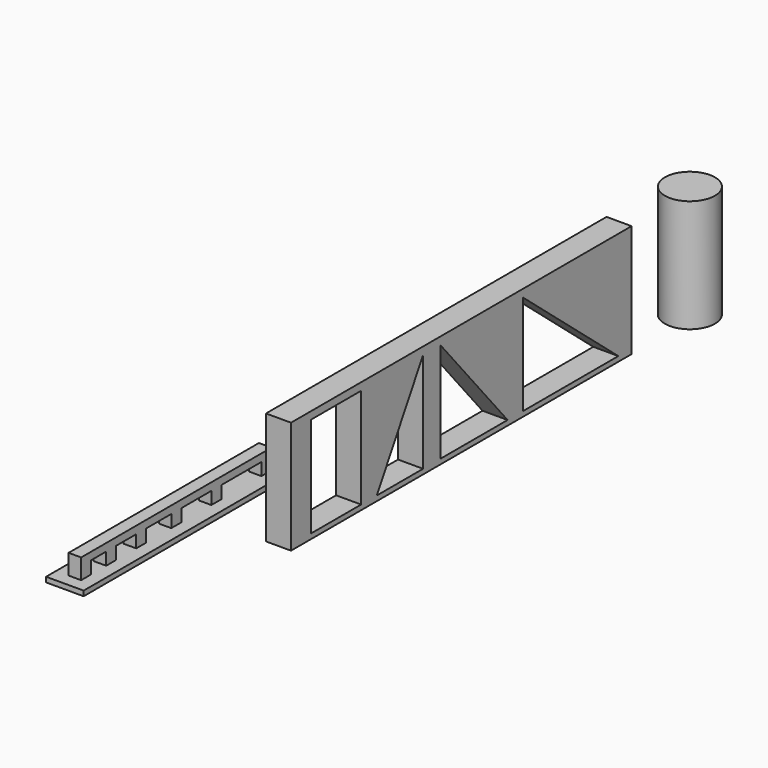
from build123d import *

# Parameters (mm, degrees)
F0_W     = 3.81
F0_H     = 25.4
F1_DEPTH = 0.508
F2_W     = 1.27
F2_H     = 1.27
F3_DEPTH = 1.27
F4_W     = 1.27
F4_H     = 24.13
F5_DEPTH = 0.762
F6_W     = 2.54
F6_H     = 43.18
F6_R     = 2.54
F7_DEPTH = 11.43
F8_W     = 6.35
F8_H     = 10.16
F9_DEPTH = 2.54


with BuildPart() as f1:
    # F0 (on Top) → F1 (new body)
    with BuildSketch(Plane.XY):
        Rectangle(F0_W, F0_H)
    extrude(amount=F1_DEPTH)

    # F2 (on face) → F3 (join)
    with BuildSketch(Plane.XY.offset(0.508)):
        with Locations((0, 12.065)):
            Rectangle(F2_W, F2_H)
        with Locations((0, 5.715)):
            Rectangle(F2_W, F2_H)
        with Locations((0, 0.635)):
            Rectangle(F2_W, F2_H)
        with Locations((0, -3.81)):
            Rectangle(F2_W, F2_H)
        with Locations((0, -7.62)):
            Rectangle(F2_W, F2_H)
        with Locations((0, -10.795)):
            Rectangle(F2_W, F2_H)
    extrude(amount=F3_DEPTH)

    # F4 (on face) → F5 (join)
    with BuildSketch(Plane.XY.offset(1.778)):
        with Locations((0, 0.635)):
            Rectangle(F4_W, F4_H)
    extrude(amount=F5_DEPTH)


with BuildPart() as f7:
    # F6 (on Top) → F7 (new body)
    with BuildSketch(Plane.XY):
        with Locations((8.573812, 25.258003)):
            Rectangle(F6_W, F6_H)
        with Locations((9.206796, 55.041417)):
            Circle(F6_R)
    extrude(amount=F7_DEPTH)

    # F8 (on face) → F9 (cut, through all)
    with BuildSketch(Plane.YZ.offset(9.843812)):
        with Locations((9.383003, 5.588)):
            Rectangle(F8_W, F8_H)
        Polygon((20.411219, 10.668), (14.545341, 0.508), (20.411219, 0.508), align=None)
        Polygon((22.602875, 10.668), (22.602875, 0.508), (31.128127, 0.508), align=None)
        Polygon((33.061758, 10.668), (33.061758, 0.508), (45.169974, 0.508), align=None)
    extrude(amount=-F9_DEPTH, mode=Mode.SUBTRACT)


solid = Compound([f1.part, f7.part])
